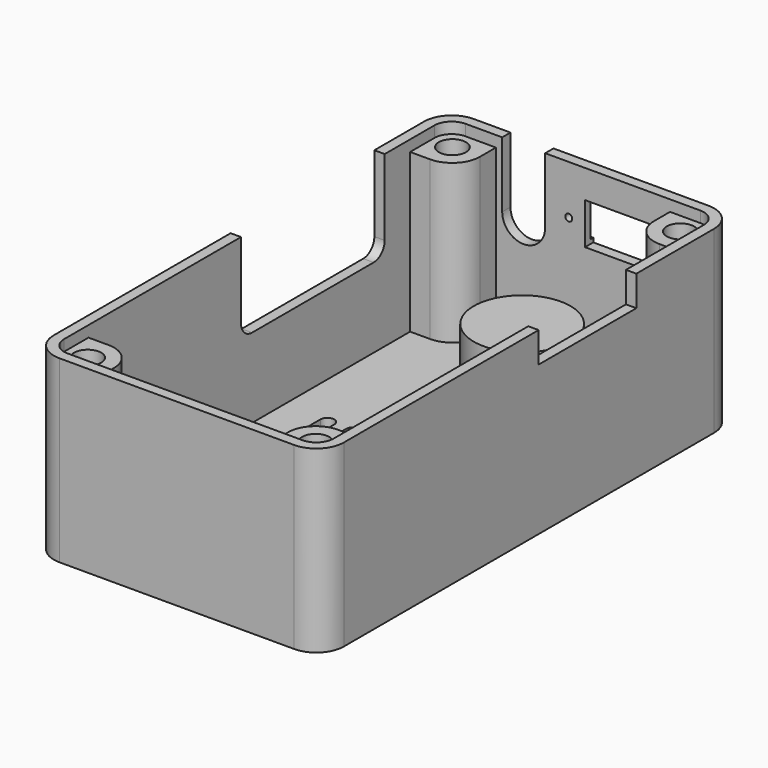
from build123d import *

# Parameters (mm, degrees)
PAD_DEPTH           = 26
SKETCH001_R         = 1.6891
POCKET_DEPTH        = 24.5
POCKET001_DEPTH     = 1.6
POCKET002_DEPTH     = 5
POCKET004_DEPTH     = 10
LINEARPATTERN_COUNT = 8
LINEARPATTERN_PITCH = 3.714286
SKETCH009_W         = 20
SKETCH009_H         = 4.8
POCKET007_DEPTH     = 0.5
SKETCH004_W         = 17.68
SKETCH004_H         = 4.4
POCKET015_DEPTH     = 5
SKETCH013_W         = 10.6
SKETCH013_H         = 6
POCKET016_DEPTH     = 5
SKETCH014_R         = 0.5
POCKET017_DEPTH     = 5
SKETCH015_R         = 1.9685
POCKET018_DEPTH     = 5
POCKET019_DEPTH     = 5
POCKET020_DEPTH     = 10
SKETCH021_R         = 7
PAD001_DEPTH        = 9
SKETCH019_R         = 4.6
POCKET021_DEPTH     = 1.2
SKETCH018_R         = 4
POCKET022_DEPTH     = 8.5


with BuildPart() as part:
    # Sketch → Pad (new body)
    with BuildSketch(Plane.XY):
        with BuildLine():
            Line((-17, 37.5), (17, 37.5))
            ThreePointArc((21, 33.5), (19.828427, 36.328427), (17, 37.5))
            Line((21, 33.5), (21, -33.5))
            ThreePointArc((17, -37.5), (19.828427, -36.328427), (21, -33.5))
            Line((17, -37.5), (-17, -37.5))
            ThreePointArc((-21, -33.5), (-19.828427, -36.328427), (-17, -37.5))
            Line((-21, -33.5), (-21, 33.5))
            ThreePointArc((-17, 37.5), (-19.828427, 36.328427), (-21, 33.5))
        make_face()
    extrude(amount=PAD_DEPTH)

    # Sketch001 (on Face10 of Pad) → Pocket (cut)
    with BuildSketch(Plane.XY.offset(26)):
        with Locations((-16.5, -33)):
            Circle(SKETCH001_R)
        with Locations((16.5, -33)):
            Circle(SKETCH001_R)
        with Locations((16.5, 33)):
            Circle(SKETCH001_R)
        with Locations((-16.5, 33)):
            Circle(SKETCH001_R)
        with BuildLine():
            Line((-12.6, 36), (12.6, 36))
            Line((12.6, 36), (12.6, 33.1))
            ThreePointArc((12.6, 33.1), (13.771573, 30.271573), (16.6, 29.1))
            Line((16.6, 29.1), (19.5, 29.1))
            Line((19.5, 29.1), (19.5, -29.1))
            Line((19.5, -29.1), (16.6, -29.1))
            ThreePointArc((16.6, -29.1), (13.771573, -30.271573), (12.6, -33.1))
            Line((12.6, -33.1), (12.6, -36))
            Line((12.6, -36), (-12.6, -36))
            Line((-12.6, -36), (-12.6, -33.1))
            ThreePointArc((-12.6, -33.1), (-13.771573, -30.271573), (-16.6, -29.1))
            Line((-16.6, -29.1), (-19.5, -29.1))
            Line((-19.5, -29.1), (-19.5, 29.1))
            Line((-19.5, 29.1), (-16.6, 29.1))
            ThreePointArc((-16.6, 29.1), (-13.771573, 30.271573), (-12.6, 33.1))
            Line((-12.6, 33.1), (-12.6, 36))
        make_face()
    extrude(amount=-POCKET_DEPTH, mode=Mode.SUBTRACT)

    # Sketch002 (on Face5 of Pocket) → Pocket001 (cut)
    with BuildSketch(Plane.XY.offset(26)):
        with BuildLine():
            Line((-17, 36), (17, 36))
            ThreePointArc((19.5, 33.5), (18.767767, 35.267767), (17, 36))
            Line((19.5, 33.5), (19.5, -33.5))
            ThreePointArc((17, -36), (18.767767, -35.267767), (19.5, -33.5))
            Line((17, -36), (-17, -36))
            ThreePointArc((-19.5, -33.5), (-18.767767, -35.267767), (-17, -36))
            Line((-19.5, -33.5), (-19.5, 33.5))
            ThreePointArc((-17, 36), (-18.767767, 35.267767), (-19.5, 33.5))
        make_face()
    extrude(amount=-POCKET001_DEPTH, mode=Mode.SUBTRACT)

    # Sketch003 (on Face7 of Pocket001) → Pocket002 (cut)
    with BuildSketch(Plane(origin=(0, 37.5, 0), x_dir=(-1, 0, 0), z_dir=(0, 1, 0))):
        with BuildLine():
            Line((5.4685, 16.5), (5.4685, 26))
            Line((5.4685, 26), (11.6915, 26))
            Line((11.6915, 26), (11.6915, 16.5))
            ThreePointArc((5.4685, 16.5), (8.58, 13.3885), (11.6915, 16.5))
        make_face()
    extrude(amount=-POCKET002_DEPTH, mode=Mode.SUBTRACT)

    # Sketch005 → Pocket004 (cut)
    with BuildSketch(Plane.XY.offset(1.5)):
        with BuildLine():
            ThreePointArc((-14, -25), (-13, -26), (-12, -25))
            Line((-12, -25), (-12, 6))
            ThreePointArc((-12, 6), (-13, 7), (-14, 6))
            Line((-14, -25), (-14, 6))
        make_face()
    pocket004 = extrude(amount=-POCKET004_DEPTH, mode=Mode.SUBTRACT)

    # LinearPattern: Pocket004 ×8
    with Locations(*[(i * LINEARPATTERN_PITCH, 0, 0) for i in range(1, LINEARPATTERN_COUNT)]):
        add(pocket004, mode=Mode.SUBTRACT)

    # Sketch009 → Pocket007 (cut)
    with BuildSketch(Plane(origin=(0, 37.5, 0), x_dir=(-1, 0, 0), z_dir=(0, 1, 0))):
        with Locations((-5.6, 18.9)):
            Rectangle(SKETCH009_W, SKETCH009_H)
    extrude(amount=-POCKET007_DEPTH, mode=Mode.SUBTRACT)

    # Sketch004 → Pocket015 (cut)
    with BuildSketch(Plane.YZ.offset(21)):
        with Locations((10.57, 23.8)):
            Rectangle(SKETCH004_W, SKETCH004_H)
    extrude(amount=-POCKET015_DEPTH, mode=Mode.SUBTRACT)

    # Sketch013 (on Face7 of Pocket007) → Pocket016 (cut)
    with BuildSketch(Plane(origin=(0, 37.5, 0), x_dir=(-1, 0, 0), z_dir=(0, 1, 0))):
        with Locations((-5.6, 18.9)):
            Rectangle(SKETCH013_W, SKETCH013_H)
    extrude(amount=-POCKET016_DEPTH, mode=Mode.SUBTRACT)

    # Sketch014 (on Face87 of Pocket016) → Pocket017 (cut)
    with BuildSketch(Plane(origin=(0, 37, 0), x_dir=(-1, 0, 0), z_dir=(0, 1, 0))):
        with Locations((-13.25, 18.9)):
            Circle(SKETCH014_R)
        with Locations((2.05, 18.9)):
            Circle(SKETCH014_R)
    extrude(amount=-POCKET017_DEPTH, mode=Mode.SUBTRACT)

    # Sketch015 (on Face104 of Pocket017) → Pocket018 (cut)
    with BuildSketch(Plane.XY.offset(24.4)):
        with Locations((-16.5, 33)):
            Circle(SKETCH015_R)
        with Locations((-16.5, -33)):
            Circle(SKETCH015_R)
        with Locations((16.5, -33)):
            Circle(SKETCH015_R)
        with Locations((16.5, 33)):
            Circle(SKETCH015_R)
    extrude(amount=-POCKET018_DEPTH, mode=Mode.SUBTRACT)

    # Sketch016 (on Face1 of Pocket018) → Pocket019 (cut)
    with BuildSketch(Plane(origin=(-21, 0, 0), x_dir=(0, -1, 0), z_dir=(-1, 0, 0))):
        with BuildLine():
            Line((-24.5, 26), (1.5, 26))
            Line((1.5, 26), (1.5, 15))
            ThreePointArc((-0.5, 13), (0.914214, 13.585786), (1.5, 15))
            Line((-0.5, 13), (-22.5, 13))
            ThreePointArc((-24.5, 15), (-23.914214, 13.585786), (-22.5, 13))
            Line((-24.5, 15), (-24.5, 26))
        make_face()
    extrude(amount=-POCKET019_DEPTH, mode=Mode.SUBTRACT)

    # Sketch020 (on Face81 of Pocket019) → Pocket020 (cut)
    with BuildSketch(Plane.XY.offset(1.5)):
        with BuildLine():
            Line((-19.5, 29.1), (-16.6, 29.1))
            ThreePointArc((-16.6, 29.1), (-13.771573, 30.271573), (-12.6, 33.1))
            Line((-12.6, 33.1), (-12.6, 36))
            Line((-12.6, 36), (12.6, 36))
            Line((12.6, 36), (12.6, 33.1))
            ThreePointArc((12.6, 33.1), (13.771573, 30.271573), (16.6, 29.1))
            Line((16.6, 29.1), (19.5, 29.1))
            Line((19.5, 29.1), (19.5, -33.5))
            ThreePointArc((17, -36), (18.767767, -35.267767), (19.5, -33.5))
            Line((17, -36), (-17, -36))
            ThreePointArc((-19.5, -33.5), (-18.767767, -35.267767), (-17, -36))
            Line((-19.5, -33.5), (-19.5, 29.1))
        make_face()
    extrude(amount=POCKET020_DEPTH, mode=Mode.SUBTRACT)

    # Sketch021 (on Face81 of Pocket020) → Pad001 (join)
    with BuildSketch(Plane.XY.offset(1.5)):
        with Locations((0, 25)):
            Circle(SKETCH021_R)
    extrude(amount=PAD001_DEPTH)

    # Sketch019 (on Face2 of Pad001) → Pocket021 (cut)
    with BuildSketch(Plane(origin=(0, 0, 0), x_dir=(1, 0, 0), z_dir=(0, 0, -1))):
        with Locations((0, -25)):
            Circle(SKETCH019_R)
    extrude(amount=-POCKET021_DEPTH, mode=Mode.SUBTRACT)

    # Sketch018 (on Face2 of Pad001) → Pocket022 (cut)
    with BuildSketch(Plane(origin=(0, 0, 0), x_dir=(1, 0, 0), z_dir=(0, 0, -1))):
        with Locations((0, -25)):
            Circle(SKETCH018_R)
    extrude(amount=-POCKET022_DEPTH, mode=Mode.SUBTRACT)


solid = part.part
